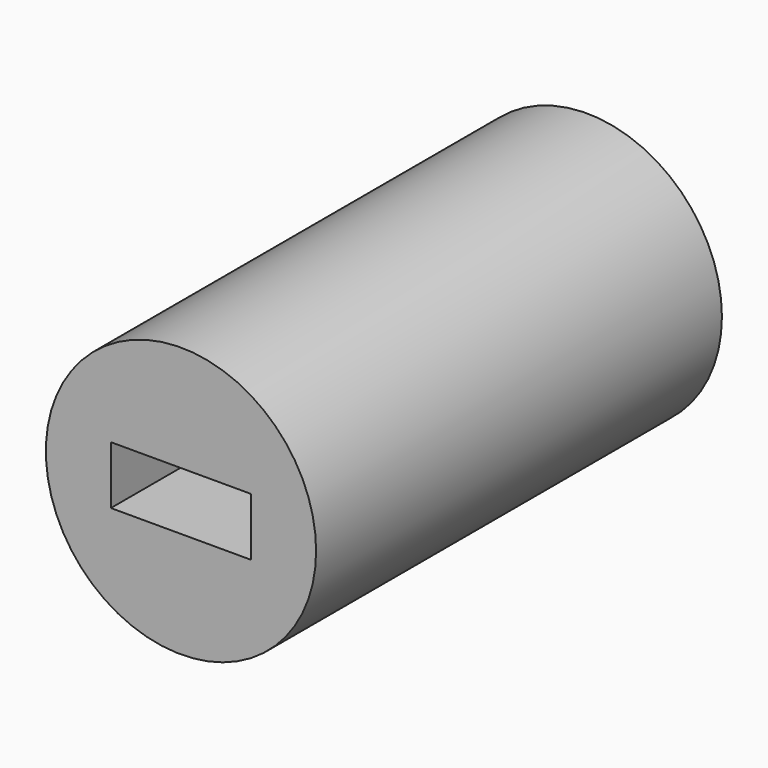
from build123d import *

# Parameters (mm, degrees)
F0_R     = 27.063964
F0_W     = 28.079822
F0_H     = 11.61923
F1_DEPTH = 101.6


with BuildPart() as f1:
    # F0 (on Front) → F1 (new body)
    with BuildSketch(Plane.XZ):
        Circle(F0_R)
        Rectangle(F0_W, F0_H, mode=Mode.SUBTRACT)
    extrude(amount=F1_DEPTH)


solid = f1.part
